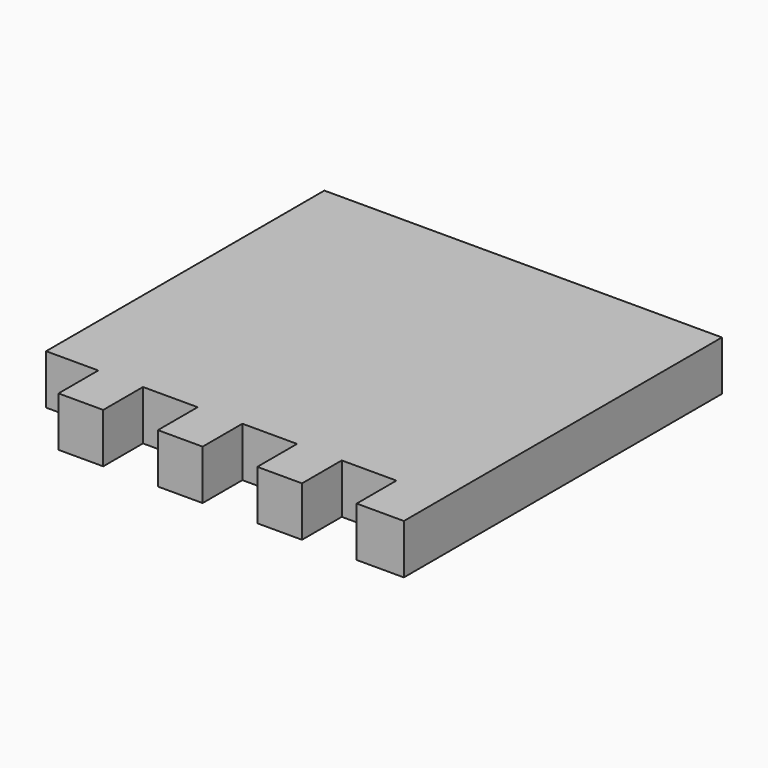
from build123d import *

# Parameters (mm, degrees)
BOX001_W      = 1.1
BOX001_H      = 1
BOX001_DEPTH  = 1
ARRAY_X_COUNT = 4
ARRAY_X_PITCH = 2
BOX_W         = 8
BOX_H         = 8
BOX_DEPTH     = 1


with BuildPart() as array:
    # Box001 → Box001 (new body)
    with BuildSketch(Plane(origin=(17.86, 30.4267, 0), x_dir=(1, 0, 0), z_dir=(0, 0, 1))):
        with Locations((0.55, 0.5)):
            Rectangle(BOX001_W, BOX001_H)
    extrude(amount=BOX001_DEPTH)

    # Array X: Array ×4


with BuildPart() as array_1:
    add(array.part)
    with Locations(*[(i * ARRAY_X_PITCH, 0, 0) for i in range(1, ARRAY_X_COUNT)]):
        add(array.part)


with BuildPart() as array_2:
    # Array placement: moved
    add(array_1.part.moved(Location((-0.05, 0, 0))))


with BuildPart() as fingers:
    # Box → Box (new body)
    with BuildSketch(Plane(origin=(17.86, 30.4267, 0), x_dir=(1, 0, 0), z_dir=(0, 0, 1))):
        with Locations((4, 4)):
            Rectangle(BOX_W, BOX_H)
    extrude(amount=BOX_DEPTH)

    # Cut: cut Array
    add(array_2.part, mode=Mode.SUBTRACT)


solid = fingers.part
